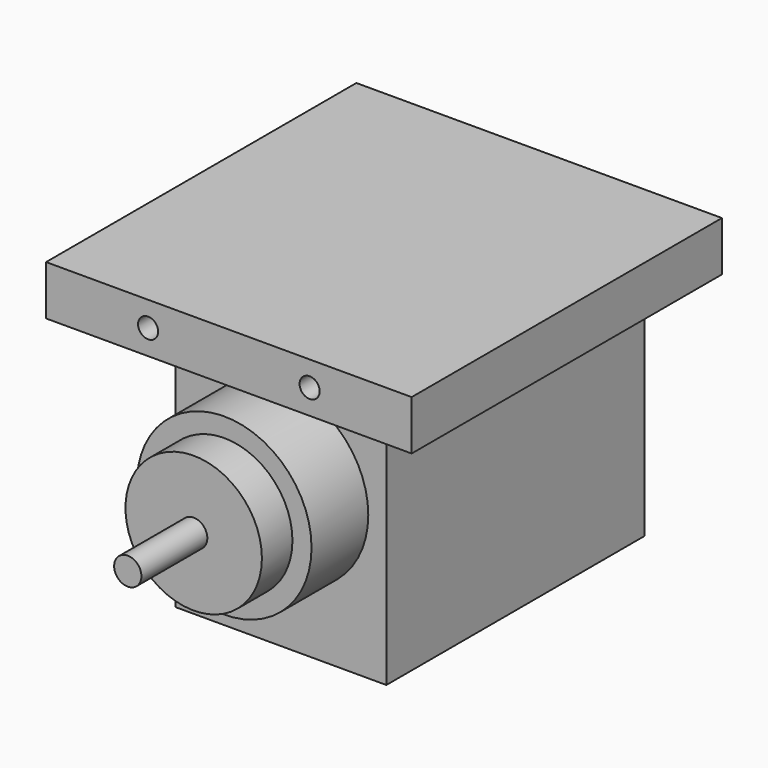
from build123d import *

# Parameters (mm, degrees)
F0_W      = 85.09
F0_H      = 90.2716
F1_DEPTH  = 11.557
F2_W      = 49.060036246
F2_H      = 59.944
F3_DEPTH  = 59.4614
F4_R      = 20.32
F4_R_2    = 15.875
F5_DEPTH  = 16.51
F4_R_3    = 3.175
F6_DEPTH  = 25.4
F7_DEPTH  = 44.577
F8_R      = 2.3368
F9_DEPTH  = 25.4
F10_DEPTH = 15.1638


with BuildPart() as f1:
    # F0 (on Top) → F1 (new body)
    with BuildSketch(Plane.XY):
        Rectangle(F0_W, F0_H)
    extrude(amount=F1_DEPTH)

    # F2 (on face) → F3 (join)
    with BuildSketch(Plane(origin=(0, 0, 0), x_dir=(1, 0, 0), z_dir=(0, 0, -1))):
        Rectangle(F2_W, F2_H)
    extrude(amount=F3_DEPTH)

    # F4 (on face) → F5 (join)
    with BuildSketch(Plane.XZ.offset(29.972)):
        with Locations((0, -25.9842)):
            Circle(F4_R)
        with Locations((0, -25.9842)):
            Circle(F4_R_2, mode=Mode.SUBTRACT)
    extrude(amount=F5_DEPTH)

    # F4 (on face) → F6 (join)
    with BuildSketch(Plane.XZ.offset(29.972)):
        with Locations((0, -25.9842)):
            Circle(F4_R_2)
        with Locations((0, -25.9842)):
            Circle(F4_R_3, mode=Mode.SUBTRACT)
    extrude(amount=F6_DEPTH)

    # F4 (on face) → F7 (join)
    with BuildSketch(Plane.XZ.offset(29.972)):
        with Locations((0, -25.9842)):
            Circle(F4_R_3)
    extrude(amount=F7_DEPTH)

    # F8 (on face) → F9 (cut)
    with BuildSketch(Plane.XZ.offset(45.1358)):
        with Locations((-18.796, 5.7785)):
            Circle(F8_R)
        with Locations((18.796, 5.7785)):
            Circle(F8_R)
    extrude(amount=-F9_DEPTH, mode=Mode.SUBTRACT)

    # F10 (add, through all): a face of the model
    f10_faces = [f1.faces().sort_by_distance(p)[0] for p in [
        (0, 29.972, -29.7307),
    ]]
    extrude(f10_faces, amount=F10_DEPTH)


solid = f1.part
